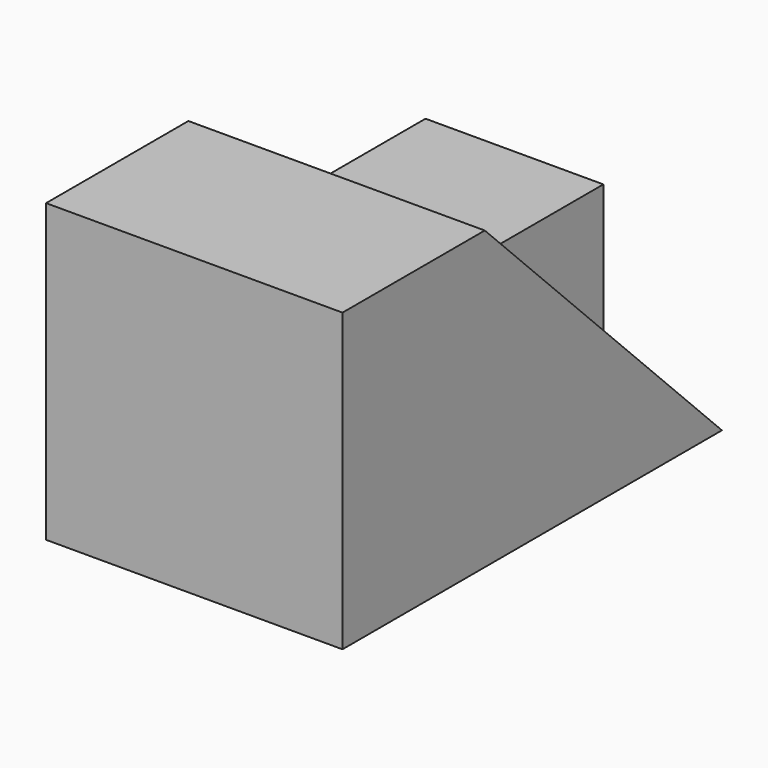
from build123d import *

# Parameters (mm, degrees)
F0_W     = 31.75
F0_H     = 31.75
F1_DEPTH = 50.8
F3_DEPTH = 12.7
F5_DEPTH = 19.051


with BuildPart() as f1:
    # F0 (on Front) → F1 (new body)
    with BuildSketch(Plane.XZ):
        with Locations((15.875, 15.875)):
            Rectangle(F0_W, F0_H)
    extrude(amount=F1_DEPTH)

    # F2 (on face) → F3 (cut)
    with BuildSketch(Plane.YZ.offset(31.75)):
        Polygon((0, 31.75), (-31.75, 31.75), (0, 0), align=None)
    extrude(amount=-F3_DEPTH, mode=Mode.SUBTRACT)

    # F4 (on face) → F5 (cut, through all)
    with BuildSketch(Plane.YZ.offset(19.05)):
        Polygon((-19.062211737, 19.062211737), (0, 19.062211737), (0, 31.75), (-31.75, 31.75), align=None)
    extrude(amount=-F5_DEPTH, mode=Mode.SUBTRACT)


solid = f1.part
